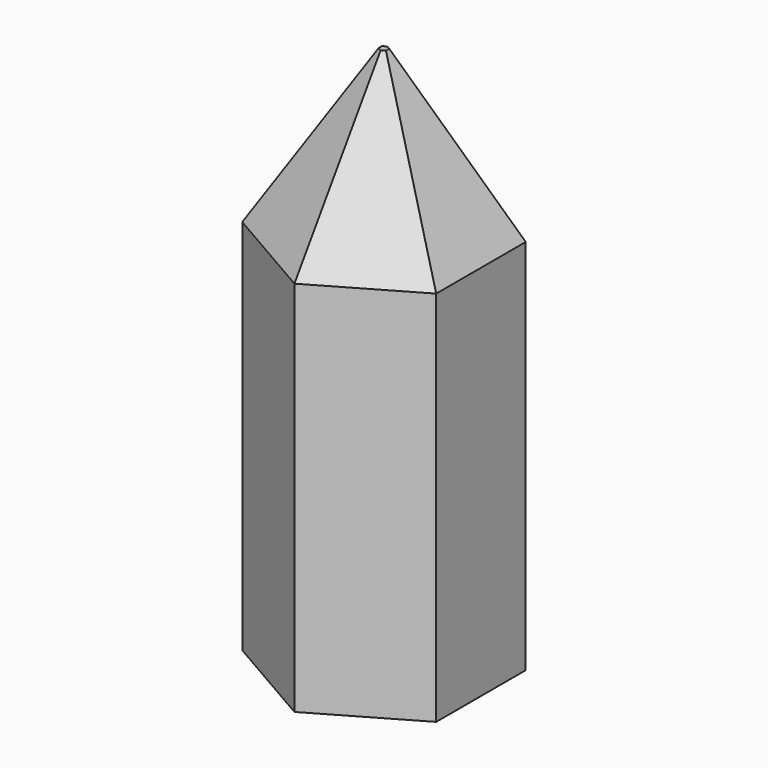
from build123d import *

# Parameters (mm, degrees)
F1_DEPTH = 150
F2_SIZE2 = 25.9807621135
F2_SIZE  = 45


with BuildPart() as f1:
    # F0 (on Top) → F1 (new body)
    with BuildSketch(Plane.XY):
        Polygon((-15.4086170788, 13.843306002), (-24.4086170788, 29.4317632701), (-24.4086170788, -1.7451512661), align=None)
        Polygon((2.5913829212, 45.0202205382), (-24.4086170788, 29.4317632701), (-6.4086170788, 29.4317632701), align=None)
        Polygon((-6.4086170788, 29.4317632701), (-24.4086170788, 29.4317632701), (-15.4086170788, 13.843306002), align=None)
        Polygon((29.5913829212, 29.4317632701), (2.5913829212, 45.0202205382), (11.5913829212, 29.4317632701), align=None)
        Polygon((11.5913829212, 29.4317632701), (2.5913829212, 45.0202205382), (-6.4086170788, 29.4317632701), align=None)
        Polygon((-6.4086170788, -1.7451512661), (-24.4086170788, -1.7451512661), (2.5913829212, -17.3336085342), align=None)
        Polygon((-15.4086170788, 13.843306002), (-24.4086170788, -1.7451512661), (-6.4086170788, -1.7451512661), align=None)
        Polygon((20.5913829212, 13.843306002), (29.5913829212, 29.4317632701), (11.5913829212, 29.4317632701), align=None)
        Polygon((29.5913829212, -1.7451512661), (29.5913829212, 29.4317632701), (20.5913829212, 13.843306002), align=None)
        Polygon((11.5913829212, -1.7451512661), (2.5913829212, -17.3336085342), (29.5913829212, -1.7451512661), align=None)
        Polygon((-6.4086170788, -1.7451512661), (2.5913829212, -17.3336085342), (11.5913829212, -1.7451512661), align=None)
        Polygon((11.5913829212, -1.7451512661), (29.5913829212, -1.7451512661), (20.5913829212, 13.843306002), align=None)
        Polygon((11.5913829212, 29.4317632701), (-6.4086170788, 29.4317632701), (-15.4086170788, 13.843306002), (-6.4086170788, -1.7451512661), (11.5913829212, -1.7451512661), (20.5913829212, 13.843306002), align=None)
    extrude(amount=F1_DEPTH)

    # F2
    f2_edges = [f1.edges().sort_by_distance(p)[0] for p in [
        (16.091383, -9.53938, 150),
        (29.591383, 13.843306, 150),
        (16.091383, 37.225992, 150),
        (-10.908617, 37.225992, 150),
        (-24.408617, 13.843306, 150),
        (-10.908617, -9.53938, 150),
    ]]
    chamfer(f2_edges, length=F2_SIZE, length2=F2_SIZE2)


solid = f1.part
